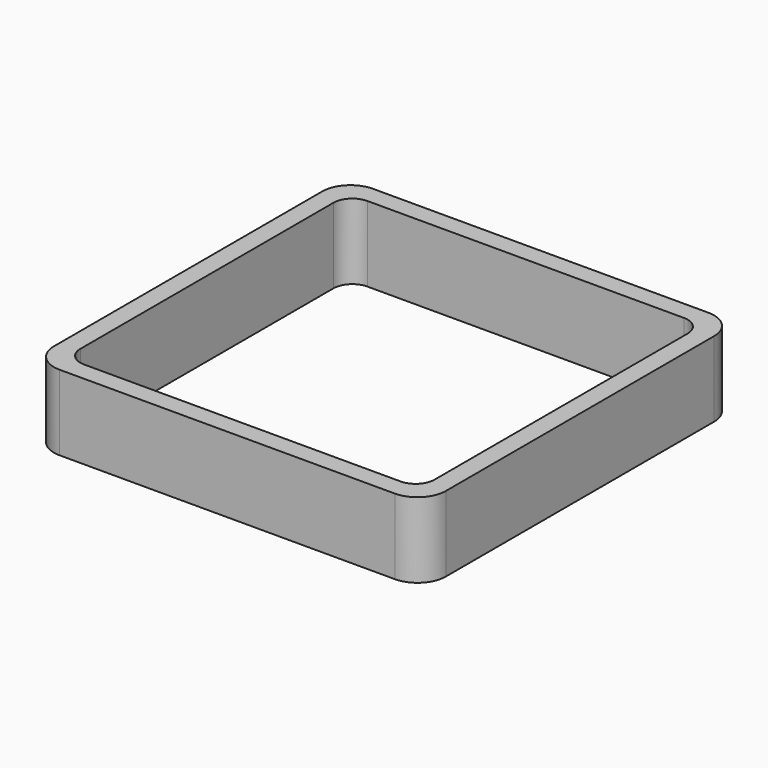
from build123d import *

# Parameters (mm, degrees)
EXTRUDE_DEPTH = 50


with BuildPart() as part:
    # Sketch → Extrude (new body)
    with BuildSketch(Plane.XY):
        with BuildLine():
            Line((-111.25, 130), (111.25, 130))
            ThreePointArc((130, 111.25), (124.508252, 124.508252), (111.25, 130))
            Line((130, 111.25), (130, -111.25))
            ThreePointArc((111.25, -130), (124.508252, -124.508252), (130, -111.25))
            Line((111.25, -130), (-111.25, -130))
            ThreePointArc((-130, -111.25), (-124.508252, -124.508252), (-111.25, -130))
            Line((-130, -111.25), (-130, 111.25))
            ThreePointArc((-111.25, 130), (-124.508252, 124.508252), (-130, 111.25))
        make_face()
        with BuildLine():
            Line((-105, 117.5), (105, 117.5))
            ThreePointArc((117.5, 105), (113.838835, 113.838835), (105, 117.5))
            Line((117.5, 105), (117.5, -105))
            ThreePointArc((105, -117.5), (113.838835, -113.838835), (117.5, -105))
            Line((105, -117.5), (-105, -117.5))
            ThreePointArc((-117.5, -105), (-113.838835, -113.838835), (-105, -117.5))
            Line((-117.5, -105), (-117.5, 105))
            ThreePointArc((-105, 117.5), (-113.838835, 113.838835), (-117.5, 105))
        make_face(mode=Mode.SUBTRACT)
    extrude(amount=EXTRUDE_DEPTH)


solid = part.part
